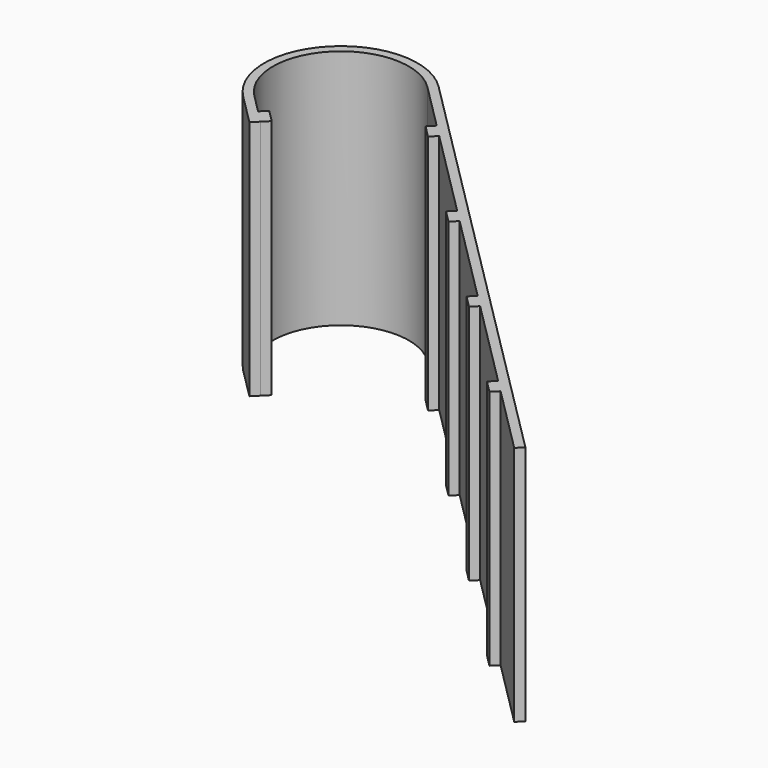
from build123d import *

# Parameters (mm, degrees)
F1_DEPTH = 55


with BuildPart() as f1:
    # F0 (on Top) → F1 (new body)
    with BuildSketch(Plane.XY):
        with BuildLine():
            Line((63.239376, -41.319066), (64.653589, -39.904852))
            Line((64.653589, -39.904852), (-34.34136, 59.090097))
            ThreePointArc((-34.34136, 59.090097), (-59.090097, 59.090097), (-59.090097, 34.34136))
            Line((-59.090097, 34.34136), (-52.01903, 27.270292))
            Line((-52.01903, 27.270292), (-50.604816, 28.684506))
            Line((-50.604816, 28.684506), (-49.190602, 30.098719))
            Line((-49.190602, 30.098719), (-52.01903, 32.927147))
            Line((-52.01903, 32.927147), (-53.433243, 31.512933))
            Line((-53.433243, 31.512933), (-57.675884, 35.755574))
            ThreePointArc((-57.675884, 35.755574), (-57.675884, 57.675884), (-35.755574, 57.675884))
            Line((-35.755574, 57.675884), (-25.148972, 47.069282))
            Line((-25.148972, 47.069282), (-26.563185, 45.655069))
            Line((-26.563185, 45.655069), (-23.734758, 42.826641))
            Line((-23.734758, 42.826641), (-22.320545, 44.240855))
            Line((-22.320545, 44.240855), (-1.814448, 23.734758))
            Line((-1.814448, 23.734758), (-3.228662, 22.320545))
            Line((-3.228662, 22.320545), (-0.400235, 19.492118))
            Line((-0.400235, 19.492118), (1.013979, 20.906331))
            Line((1.013979, 20.906331), (21.520076, 0.400235))
            Line((21.520076, 0.400235), (20.105862, -1.013979))
            Line((20.105862, -1.013979), (22.934289, -3.842406))
            Line((22.934289, -3.842406), (24.348503, -2.428193))
            Line((24.348503, -2.428193), (44.854599, -22.934289))
            Line((44.854599, -22.934289), (43.440386, -24.348503))
            Line((43.440386, -24.348503), (46.268813, -27.17693))
            Line((46.268813, -27.17693), (47.683027, -25.762716))
            Line((47.683027, -25.762716), (63.239376, -41.319066))
        make_face()
    extrude(amount=F1_DEPTH)


solid = f1.part
